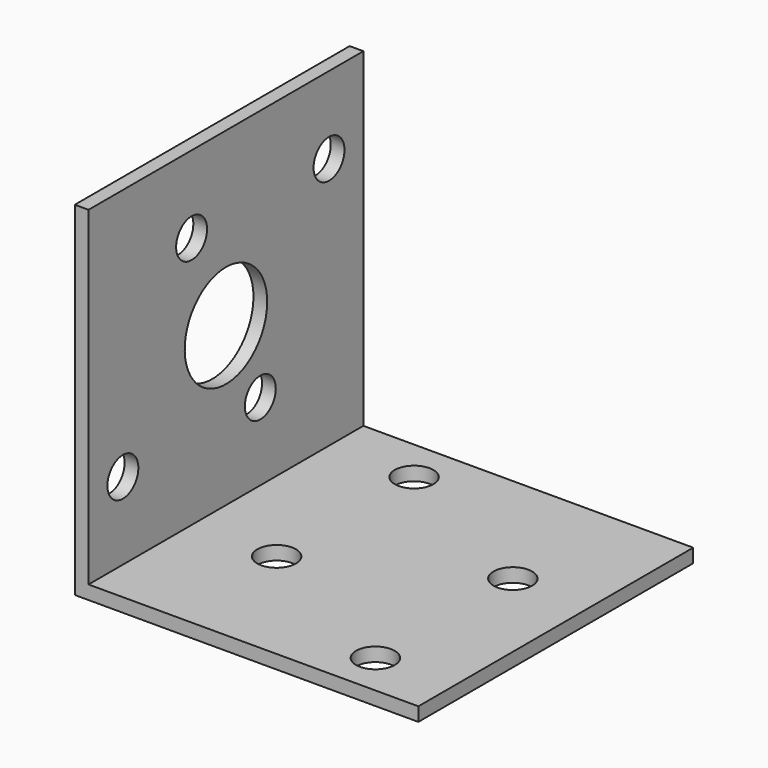
from build123d import *

# Parameters (mm, degrees)
PAD_DEPTH       = 40
SKETCH001_R     = 2.25
SKETCH001_R_2   = 6
POCKET_DEPTH    = 1.601
COPYSKETCH002_R = 2.25
POCKET001_DEPTH = 5


with BuildPart() as part:
    # Sketch → Pad (new body)
    with BuildSketch(Plane.XZ):
        Polygon((0, 0), (0, 40), (1.6, 40), (1.6, 1.6), (40, 1.6), (40, 0), align=None)
    extrude(amount=PAD_DEPTH)

    # Sketch001 (on Face3 of Pad) → Pocket (cut, through all)
    with BuildSketch(Plane(origin=(1.6, 0, 0), x_dir=(0, 0, 1), z_dir=(1, 0, 0))):
        with Locations((10.6, 35)):
            Circle(SKETCH001_R)
        with Locations((31, 25)):
            Circle(SKETCH001_R)
        with Locations((10.6, 15)):
            Circle(SKETCH001_R)
        with Locations((31, 5)):
            Circle(SKETCH001_R)
        with Locations((20, 20)):
            Circle(SKETCH001_R_2)
    extrude(amount=-POCKET_DEPTH, mode=Mode.SUBTRACT)

    # CopySketch002 → Pocket001 (cut)
    with BuildSketch(Plane(origin=(0, 0, 2.5), x_dir=(-1, 0, 0), z_dir=(0, 0, 1))):
        with Locations((-11.5, 5)):
            Circle(COPYSKETCH002_R)
        with Locations((-31, 15)):
            Circle(COPYSKETCH002_R)
        with Locations((-11.5, 25)):
            Circle(COPYSKETCH002_R)
        with Locations((-31, 35)):
            Circle(COPYSKETCH002_R)
    extrude(amount=-POCKET001_DEPTH, mode=Mode.SUBTRACT)


solid = part.part
